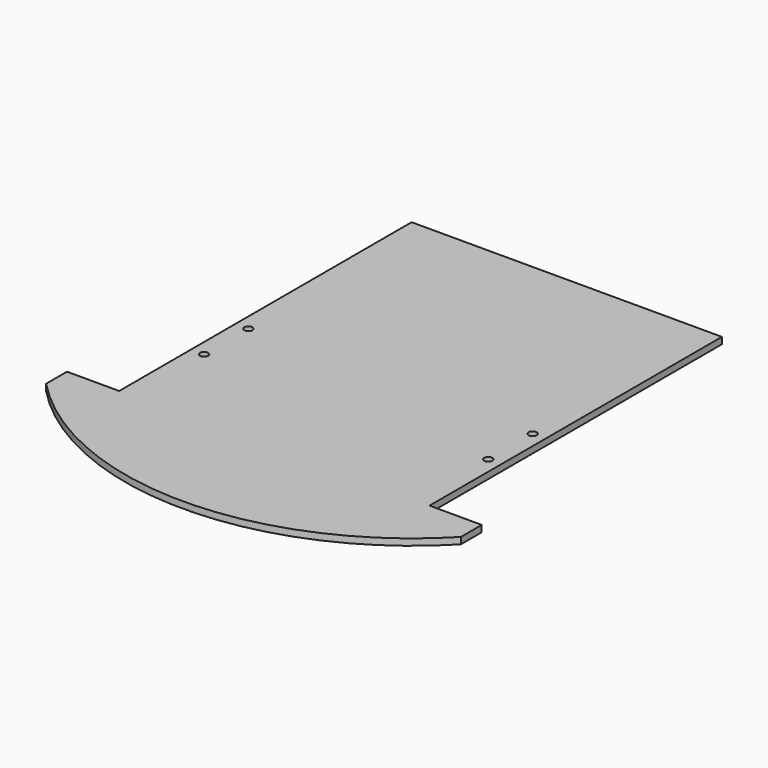
from build123d import *

# Parameters (mm, degrees)
F1_DEPTH = 3.175
F2_R     = 1.984375
F3_DEPTH = 3.176


with BuildPart() as f1:
    # F0 (on Top) → F1 (new body)
    with BuildSketch(Plane.XY):
        with BuildLine():
            Line((75.480408, 88.9), (-75.480408, 88.9))
            Line((-75.480408, 88.9), (-75.480408, -88.9))
            Line((-75.480408, -88.9), (-100.880408, -88.9))
            Line((-100.880408, -88.9), (-100.880408, -101.6))
            ThreePointArc((-100.880408, -101.6), (0, -144.660291), (100.880408, -101.6))
            Line((100.880408, -101.6), (100.880408, -88.9))
            Line((100.880408, -88.9), (75.480408, -88.9))
            Line((75.480408, -88.9), (75.480408, 88.9))
        make_face()
    extrude(amount=F1_DEPTH)

    # F2 (on Top) → F3 (cut, through all)
    with BuildSketch(Plane.XY):
        with Locations((69.130408, -45.22089)):
            Circle(F2_R)
        with Locations((69.130408, -18.27911)):
            Circle(F2_R)
        with Locations((-69.130408, -45.22089)):
            Circle(F2_R)
        with Locations((-69.130408, -18.27911)):
            Circle(F2_R)
    extrude(amount=F3_DEPTH, mode=Mode.SUBTRACT)


solid = f1.part
